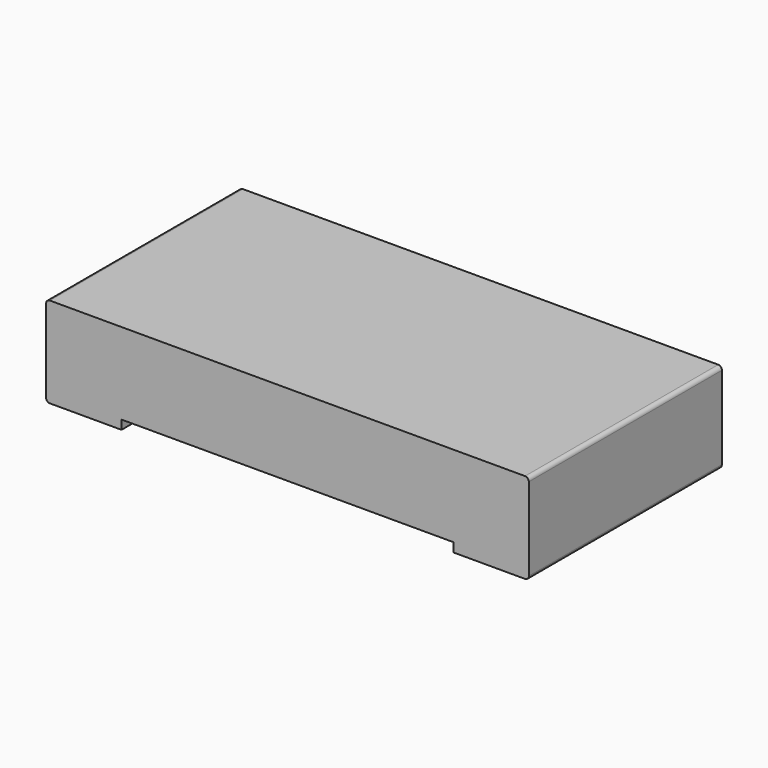
from build123d import *

# Parameters (mm, degrees)
SKETCH002_W             = 3.08
SKETCH002_H             = 0.48
PAD001_DEPTH            = 0.8
PAD_DEPTH               = 0.8
FILLET_R                = 0.025
BODY002_PLACEMENT_ANGLE = 180
SKETCH003_W             = 2.2
SKETCH003_H             = 1.6
PAD002_DEPTH            = 0.06


with BuildPart() as substrate:
    # Sketch002 → Pad001 (new body, symmetric)
    with BuildSketch(Plane.XZ):
        with Locations((0, 0.3)):
            Rectangle(SKETCH002_W, SKETCH002_H)
    extrude(amount=PAD001_DEPTH, both=True)


with BuildPart() as body001:
    # Sketch001 → Pad (new body, symmetric)
    with BuildSketch(Plane.XZ):
        Polygon((-1.1, 0), (-1.6, 0), (-1.6, 0.6), (-1.1, 0.6), (-1.1, 0.54), (-1.54, 0.54), (-1.54, 0.06), (-1.1, 0.06), align=None)
    pad = extrude(amount=PAD_DEPTH, both=True)

    # Mirrored: Pad across XZ
    add(pad.mirror(Plane.XZ))

    # Fillet
    fillet_edges = [body001.edges().sort_by_distance(p)[0] for p in [
        (-1.6, 0, 0.6),
        (-1.6, 0, 0),
    ]]
    fillet(fillet_edges, radius=FILLET_R)


with BuildPart() as body002:
    # Body002 base: copy of Body001
    add(body001.part)


with BuildPart() as body002_1:
    # Body002 placement: moved
    add(body002.part.rotate(Axis((0, 0, 0), (0, 0, 1)), BODY002_PLACEMENT_ANGLE))


with BuildPart() as obj1:
    # Sketch003 → Pad002 (new body)
    with BuildSketch(Plane.XY.offset(0.54)):
        Rectangle(SKETCH003_W, SKETCH003_H)
    extrude(amount=PAD002_DEPTH)

    # Fusion: union Substrate, Body001, Body002
    add(substrate.part)
    add(body001.part)
    add(body002_1.part)


solid = obj1.part
